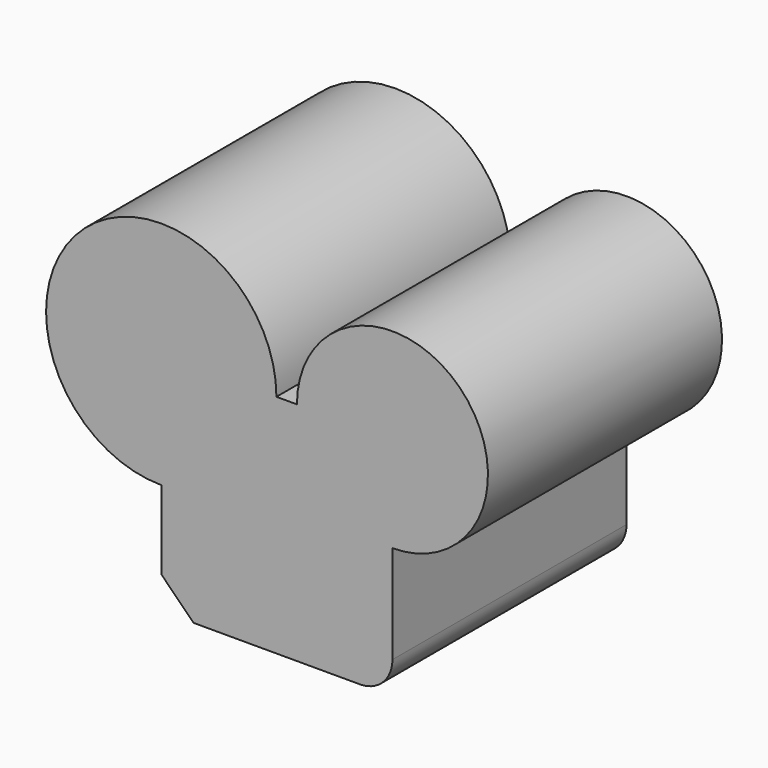
from build123d import *

# Parameters (mm, degrees)
F1_DEPTH = 45.974
F2_SIZE  = 5.08
F3_R     = 5.08


with BuildPart() as f1:
    # F0 (on Front) → F1 (new body)
    with BuildSketch(Plane.XZ):
        with BuildLine():
            Line((0, 17.415097), (0, 0))
            Line((0, 0), (36.331072, 0))
            Line((36.331072, 0), (36.331072, 20.504786))
            ThreePointArc((36.331072, 20.504786), (46.944643, 46.128212), (21.321217, 35.514642))
            Line((21.321217, 35.514642), (18.099545, 35.514642))
            ThreePointArc((18.099545, 35.514642), (-12.798311, 48.312952), (0, 17.415097))
        make_face()
    extrude(amount=F1_DEPTH)

    # F2
    f2_edges = [f1.edges().sort_by_distance(p)[0] for p in [
        (0, -22.987, 0),
    ]]
    chamfer(f2_edges, length=F2_SIZE)

    # F3
    f3_edges = [f1.edges().sort_by_distance(p)[0] for p in [
        (36.331072, -22.987, 0),
    ]]
    fillet(f3_edges, radius=F3_R)


solid = f1.part
